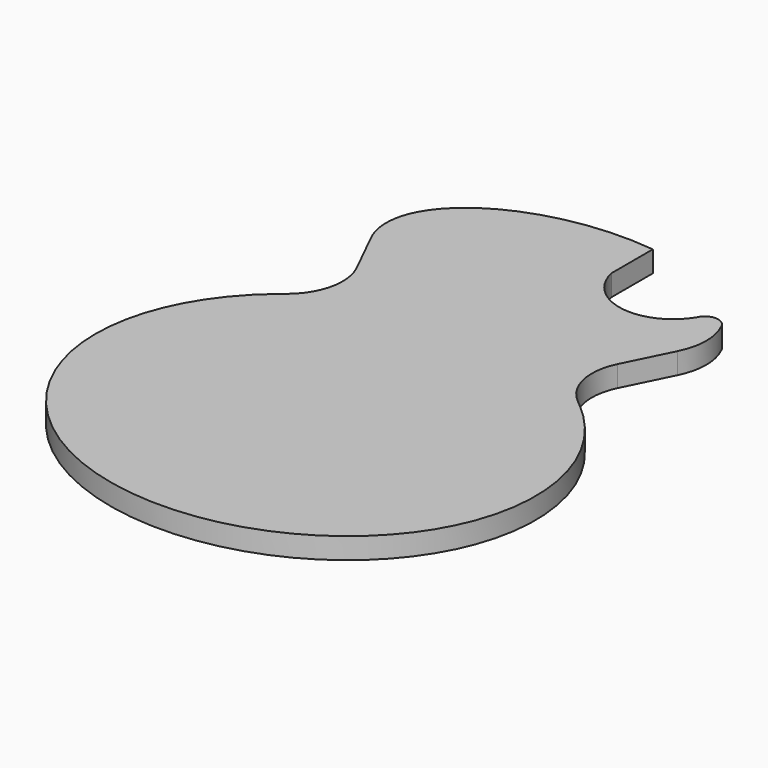
from build123d import *

# Parameters (mm, degrees)
F1_DEPTH = 15.88
F3_DEPTH = 15.8810001


with BuildPart() as f1:
    # F0 (on Top) → F1 (new body)
    with BuildSketch(Plane.XY):
        with BuildLine():
            Line((-108.5576890767, 256.1176353494), (-113.5364770265, 251.939936217))
            add(Edge.make_bspline(
                [(-113.5364770265, 251.939936217), (-413.7868011311, 0), (0, 0)],
                knots=[2.3296634603, 2.3296634603, 2.3296634603, 4.7123889804, 4.7123889804, 4.7123889804], degree=2, weights=[1, 0.3703943834, 1]))
            add(Edge.make_bspline(
                [(0, 0), (413.7868011311, 0), (113.5364770265, 251.939936217)],
                knots=[4.7123889804, 4.7123889804, 4.7123889804, 7.0951145005, 7.0951145005, 7.0951145005], degree=2, weights=[1, 0.3703943834, 1]))
            Line((113.5364770265, 251.939936217), (108.5576890767, 256.1176353494))
            ThreePointArc((108.5576890767, 256.1176353494), (94.3986512821, 279.7513155104), (97.8621324213, 307.0832288649))
            Line((97.8621324213, 307.0832288649), (114.985095442, 341.7350237373))
            add(Edge.make_bspline(
                [(114.985095442, 341.7350237373), (161.0590339343, 434.975), (0, 434.975)],
                knots=[5.9930638192, 5.9930638192, 5.9930638192, 7.853981634, 7.853981634, 7.853981634], degree=2, weights=[1, 0.59746605, 1]))
            add(Edge.make_bspline(
                [(0, 434.975), (-161.0590339343, 434.975), (-114.985095442, 341.7350237373)],
                knots=[4.7123889804, 4.7123889804, 4.7123889804, 6.5733067952, 6.5733067952, 6.5733067952], degree=2, weights=[1, 0.59746605, 1]))
            Line((-114.985095442, 341.7350237373), (-97.8621324213, 307.0832288649))
            ThreePointArc((-97.8621324213, 307.0832288649), (-94.3986512821, 279.7513155104), (-108.5576890767, 256.1176353494))
        make_face()
    extrude(amount=F1_DEPTH)

    # F2 (on face) → F3 (cut, through all)
    with BuildSketch(Plane.XY.offset(15.88)):
        with BuildLine():
            Line((89.9212004113, 434.975), (23, 434.975))
            Line((23, 434.975), (23, 394.975))
            ThreePointArc((23, 394.975), (55.7838066831, 363.5315013935), (97.0379112946, 382.5465069933))
            ThreePointArc((97.0379112946, 382.5465069933), (106.0132702576, 388.4737477528), (115.1717086084, 382.8335120741))
            Line((115.1717086084, 382.8335120741), (89.9212004113, 434.975))
        make_face()
    extrude(amount=-F3_DEPTH, mode=Mode.SUBTRACT)


solid = f1.part
